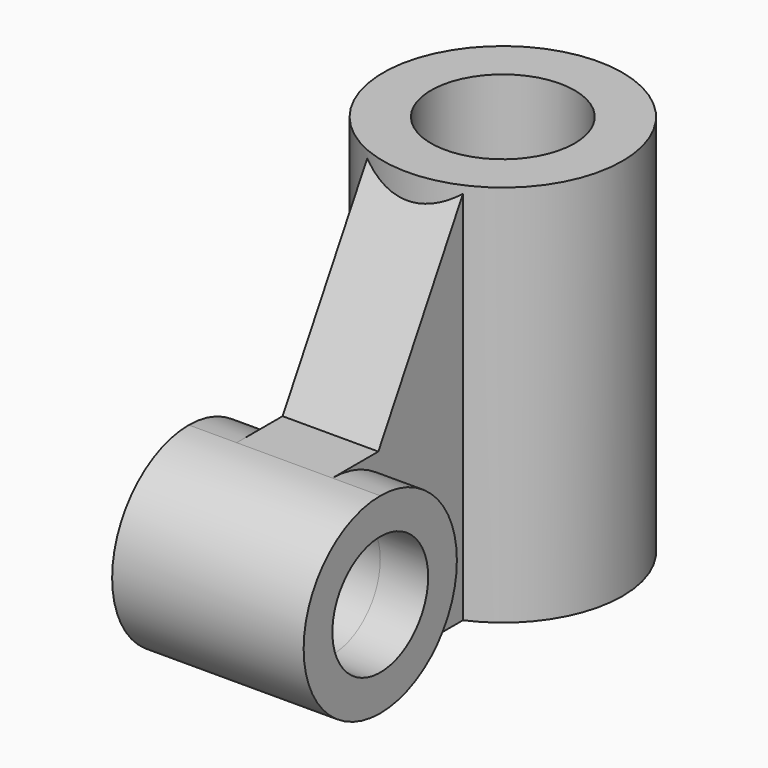
from build123d import *

# Parameters (mm, degrees)
F0_R     = 25
F0_R_2   = 15
F1_DEPTH = 40
F2_R     = 12.5
F3_DEPTH = 10
F4_DEPTH = 20


with BuildPart() as f1:
    # F0 (on Top) → F1 (new body, symmetric)
    with BuildSketch(Plane.XY):
        Circle(F0_R)
        Circle(F0_R_2, mode=Mode.SUBTRACT)
    extrude(amount=F1_DEPTH, both=True)

    # F2 (on Right) → F3 (join, symmetric)
    with BuildSketch(Plane.YZ):
        with BuildLine():
            ThreePointArc((-57, -40), (-42.8578643763, -34.1421356237), (-37, -20))
            ThreePointArc((-37, -20), (-42.8578643763, -5.8578643763), (-57, 0))
            ThreePointArc((-57, 0), (-77, -20), (-57, -40))
        make_face()
        with Locations((-57, -20)):
            Circle(F2_R, mode=Mode.SUBTRACT)
        with BuildLine():
            ThreePointArc((-57, 0), (-42.8578643763, -5.8578643763), (-37, -20))
            ThreePointArc((-37, -20), (-42.8578643763, -34.1421356237), (-57, -40))
            Line((-57, -40), (-22, -40))
            Line((-22, -40), (-22, 0))
            Line((-22, 0), (-45, 0))
            Line((-45, 0), (-57, 0))
        make_face()
        Polygon((-22, 40), (-45, 0), (-22, 0), align=None)
    extrude(amount=F3_DEPTH, both=True)

    # F2 (on Right) → F4 (join, symmetric)
    with BuildSketch(Plane.YZ):
        with BuildLine():
            ThreePointArc((-57, -40), (-42.8578643763, -34.1421356237), (-37, -20))
            ThreePointArc((-37, -20), (-42.8578643763, -5.8578643763), (-57, 0))
            ThreePointArc((-57, 0), (-77, -20), (-57, -40))
        make_face()
        with Locations((-57, -20)):
            Circle(F2_R, mode=Mode.SUBTRACT)
    extrude(amount=F4_DEPTH, both=True)


solid = f1.part
